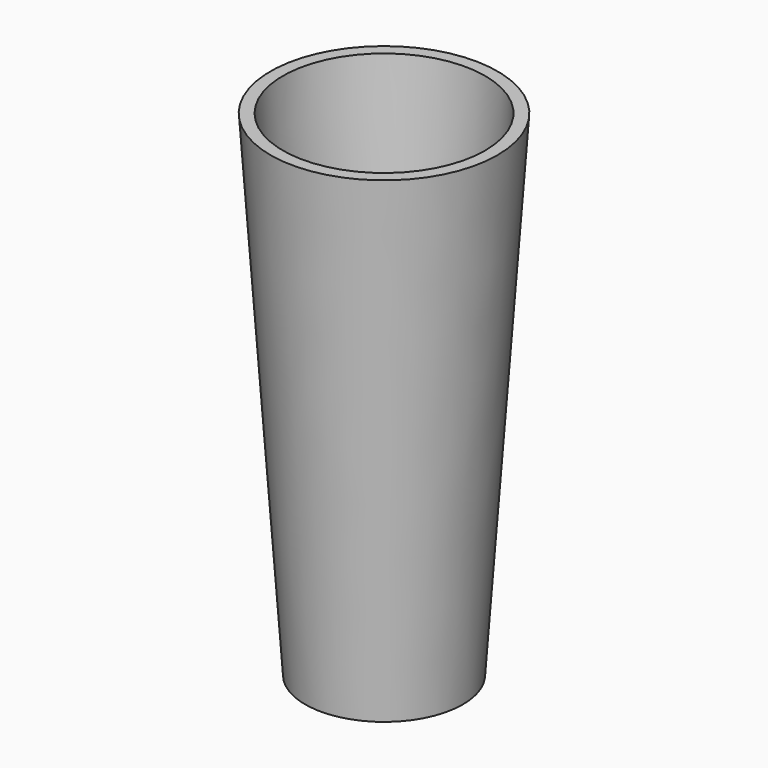
from build123d import *

# Parameters (mm, degrees)
F0_R     = 16.2043671094
F1_DEPTH = 101.6
F1_TAPER = -4
F2_T     = -2.54


with BuildPart() as f1:
    # F0 (on Top) → F1 (new body)
    with BuildSketch(Plane.XY):
        Circle(F0_R)
    extrude(amount=F1_DEPTH, taper=F1_TAPER)

    # F2
    f2_openings = [f1.faces().sort_by_distance(p)[0] for p in [
        (0, 0, 101.6),
    ]]
    offset(amount=F2_T, openings=f2_openings, kind=Kind.INTERSECTION)


solid = f1.part
